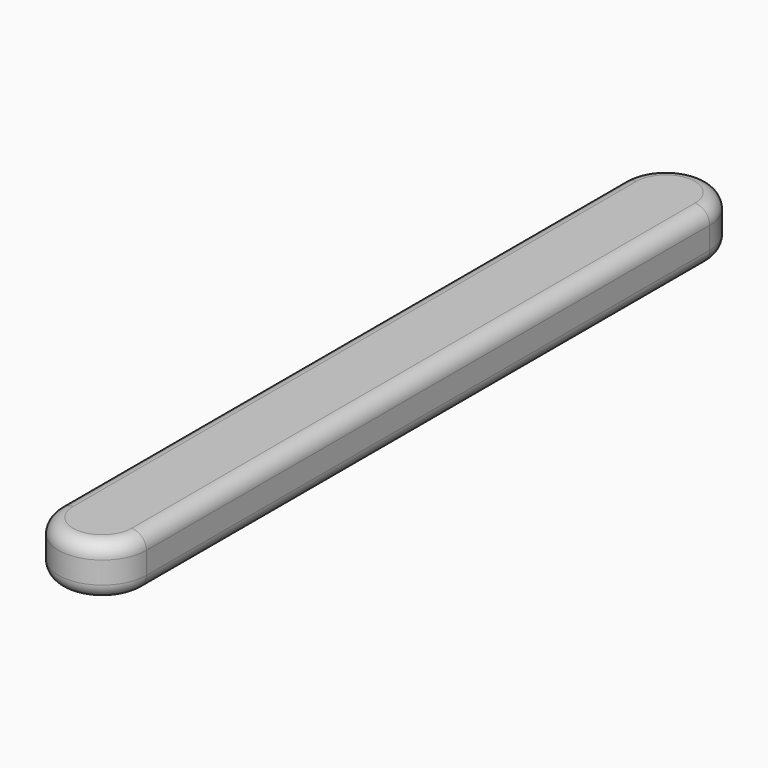
from build123d import *

# Parameters (mm, degrees)
EXTRUDE_DEPTH = 7
FILLET_R      = 2
FILLET001_R   = 2


with BuildPart() as part:
    # Sketch → Extrude (new body)
    with BuildSketch(Plane.XY):
        with BuildLine():
            ThreePointArc((-6, -48), (0, -54), (6, -48))
            Line((6, 48), (6, -48))
            ThreePointArc((6, 48), (0, 54), (-6, 48))
            Line((-6, -48), (-6, 48))
        make_face()
    extrude(amount=-EXTRUDE_DEPTH)

    # Fillet
    fillet_edges = [part.edges().sort_by_distance(p)[0] for p in [
        (0, -54, -7),
        (6, 0, -7),
        (0, 54, -7),
        (-6, 0, -7),
    ]]
    fillet(fillet_edges, radius=FILLET_R)

    # Fillet001
    fillet001_edges = [part.edges().sort_by_distance(p)[0] for p in [
        (-6, 0, 0),
        (6, 0, 0),
    ]]
    fillet(fillet001_edges, radius=FILLET001_R)


solid = part.part
